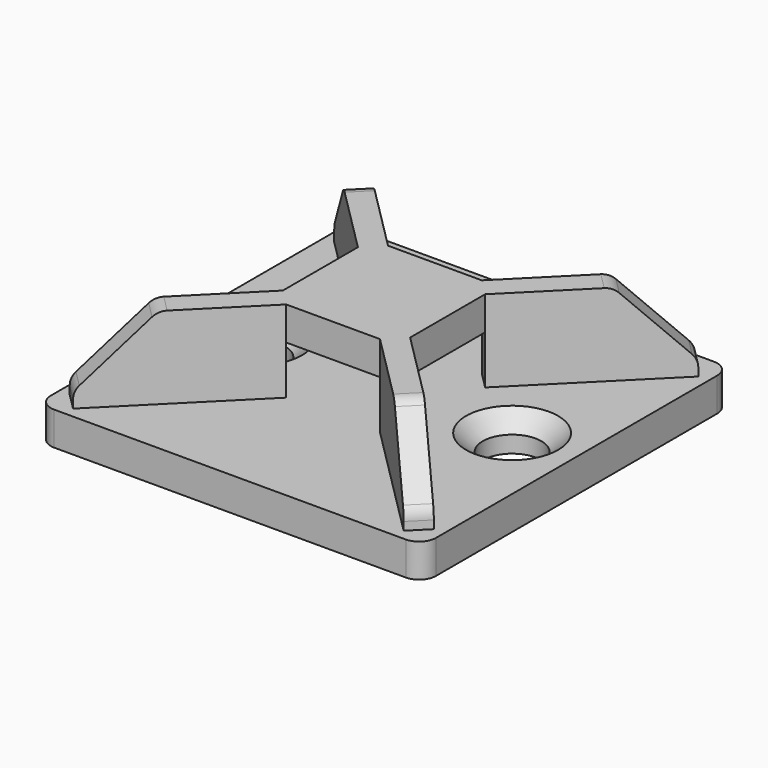
from build123d import *

# Parameters (mm, degrees)
SKETCH_W           = 23
SKETCH_H           = 23
SKETCH_R           = 1.75
PAD_DEPTH          = 2
FILLET_R           = 1
CHAMFER_SIZE       = 1
PAD002_DEPTH       = 3.8
CHAMFER002_SIZE    = 1
SKETCH003_W        = 1.414214
SKETCH003_H        = 6.9
PAD003_DEPTH       = 10
POLARPATTERN_COUNT = 4
CHAMFER003_SIZE    = 4
SKETCH004_W        = 2.365725
SKETCH004_H        = 2.9
POCKET_DEPTH       = 11.501
POCKET_DEPTH_BACK  = -11.501
FILLET001_R        = 1


with BuildPart() as part:
    # Sketch → Pad (new body)
    with BuildSketch(Plane.XY):
        Rectangle(SKETCH_W, SKETCH_H)
        with Locations((-7.65, 0)):
            Circle(SKETCH_R, mode=Mode.SUBTRACT)
        with Locations((7.65, 0)):
            Circle(SKETCH_R, mode=Mode.SUBTRACT)
    extrude(amount=PAD_DEPTH)

    # Fillet
    fillet_edges = [part.edges().sort_by_distance(p)[0] for p in [
        (-11.5, 11.5, 1),
        (-11.5, -11.5, 1),
        (11.5, -11.5, 1),
        (11.5, 11.5, 1),
    ]]
    fillet(fillet_edges, radius=FILLET_R)

    # Chamfer
    chamfer_edges = [part.edges().sort_by_distance(p)[0] for p in [
        (-9.4, 0, 2),
        (5.9, 0, 2),
    ]]
    chamfer(chamfer_edges, length=CHAMFER_SIZE)

    # Sketch002 → Pad002 (join, symmetric)
    with BuildSketch(Plane.XZ):
        Polygon((-3.8, 6.9), (3.8, 6.9), (3.8, 4.9), (0.340708, 4.9), (0.340708, 0), (-0.340708, 0), (-0.340708, 4.9), (-3.8, 4.9), align=None)
    extrude(amount=PAD002_DEPTH, both=True)

    # Chamfer002
    chamfer002_edges = [part.edges().sort_by_distance(p)[0] for p in [
        (-3.8, -3.8, 5.9),
        (-3.8, 3.8, 5.9),
        (3.8, -3.8, 5.9),
        (3.8, 3.8, 5.9),
    ]]
    chamfer(chamfer002_edges, length=CHAMFER002_SIZE)

    # Sketch003 (on Face3 of Chamfer002) → Pad003 (join)
    with BuildSketch(Plane(origin=(-3.3, -3.3, 0), x_dir=(0.707107, -0.707107, 0), z_dir=(-0.707107, -0.707107, 0))):
        with Locations((0, 3.45)):
            Rectangle(SKETCH003_W, SKETCH003_H)
    pad003 = extrude(amount=PAD003_DEPTH)

    # PolarPattern: Pad003 ×4 about axis
    polarpattern_axis = Axis((0, 0, 0), (0, 0, 1))
    for i in range(1, POLARPATTERN_COUNT):
        add(pad003.rotate(polarpattern_axis, i * 360 / POLARPATTERN_COUNT))

    # Chamfer003
    chamfer003_edges = [part.edges().sort_by_distance(p)[0] for p in [
        (10.371068, -10.371068, 6.9),
        (10.371068, 10.371068, 6.9),
        (-10.371068, 10.371068, 6.9),
        (-10.371068, -10.371068, 6.9),
    ]]
    chamfer(chamfer003_edges, length=CHAMFER003_SIZE)

    # Sketch004 → Pocket (cut, two sides)
    with BuildSketch(Plane.XZ) as pocket_sk:
        with Locations((0.122459, 3.45)):
            Rectangle(SKETCH004_W, SKETCH004_H)
    extrude(amount=-POCKET_DEPTH, mode=Mode.SUBTRACT)
    extrude(pocket_sk.sketch, amount=-POCKET_DEPTH_BACK, mode=Mode.SUBTRACT)

    # Fillet001
    fillet001_edges = [part.edges().sort_by_distance(p)[0] for p in [
        (-10.371068, -10.371068, 2.9),
        (10.371068, -10.371068, 2.9),
        (7.542641, -7.542641, 6.9),
        (-7.542641, -7.542641, 6.9),
        (-7.542641, 7.542641, 6.9),
        (7.542641, 7.542641, 6.9),
        (10.371068, 10.371068, 2.9),
        (-10.371068, 10.371068, 2.9),
    ]]
    fillet(fillet001_edges, radius=FILLET001_R)


solid = part.part
